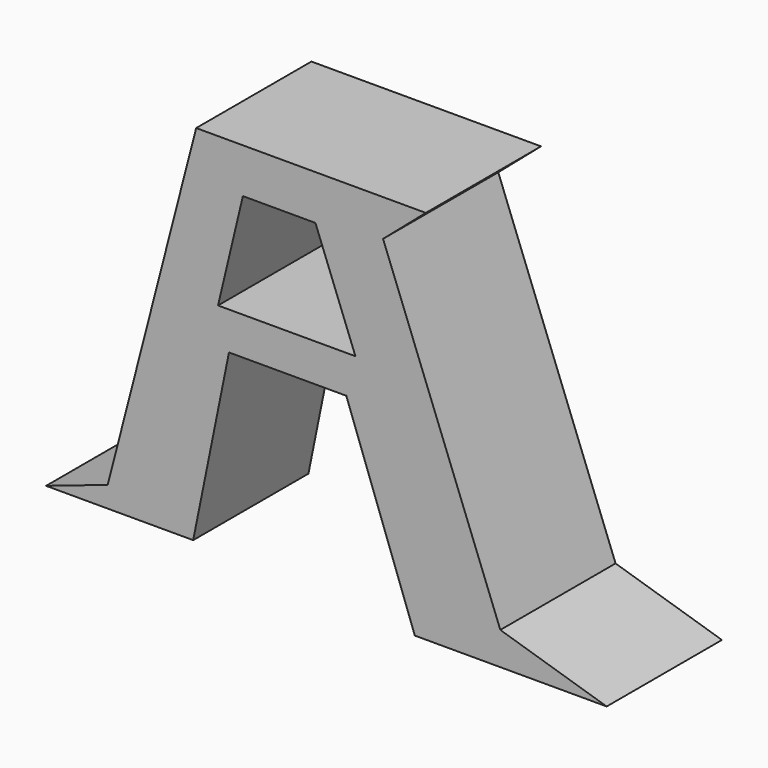
from build123d import *

# Parameters (mm, degrees)
F1_DEPTH = 25.4


with BuildPart() as f1:
    # F0 (on Front) → F1 (new body)
    with BuildSketch(Plane.XZ):
        Polygon((-44.430528, -31.197766), (-18.49081, -31.197766), (-12.18115, 0), (8.500515, 0), (20.594032, -33.300985), (54.420825, -33.300985), (35.66711, -27.517129), (14.985446, 26.46552), (22.521986, 32.95045), (-17.965006, 32.95045), (-33.56389, -27.517129), align=None)
        Polygon((-9.727393, 25.063373), (3.067197, 25.063373), (7.650744, 13.09954), (10.117609, 6.660604), (-14.109102, 6.660604), align=None, mode=Mode.SUBTRACT)
    extrude(amount=F1_DEPTH)


solid = f1.part
